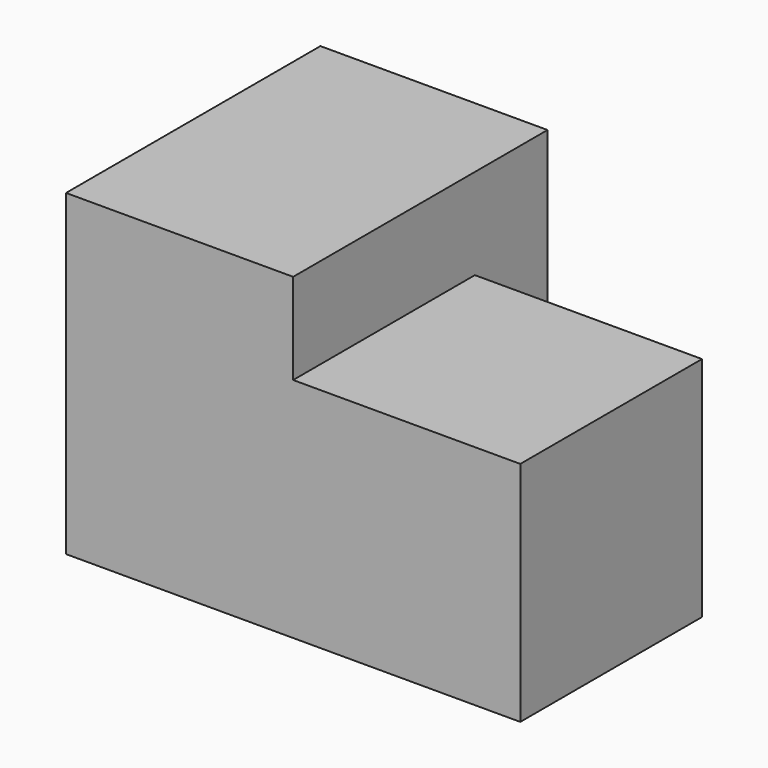
from build123d import *

# Parameters (mm, degrees)
BOX001_W     = 10
BOX001_H     = 10
BOX001_DEPTH = 10
BOX_W        = 10
BOX_H        = 14
BOX_DEPTH    = 14


with BuildPart() as cub001:
    # Box001 → Box001 (new body)
    with BuildSketch(Plane(origin=(10, 0, 0), x_dir=(1, 0, 0), z_dir=(0, 0, 1))):
        with Locations((5, 5)):
            Rectangle(BOX001_W, BOX001_H)
    extrude(amount=BOX001_DEPTH)


with BuildPart() as fusion:
    # Box → Box (new body)
    with BuildSketch(Plane.XY):
        with Locations((5, 7)):
            Rectangle(BOX_W, BOX_H)
    extrude(amount=BOX_DEPTH)

    # Fusion: union Cub001
    add(cub001.part)


solid = fusion.part
